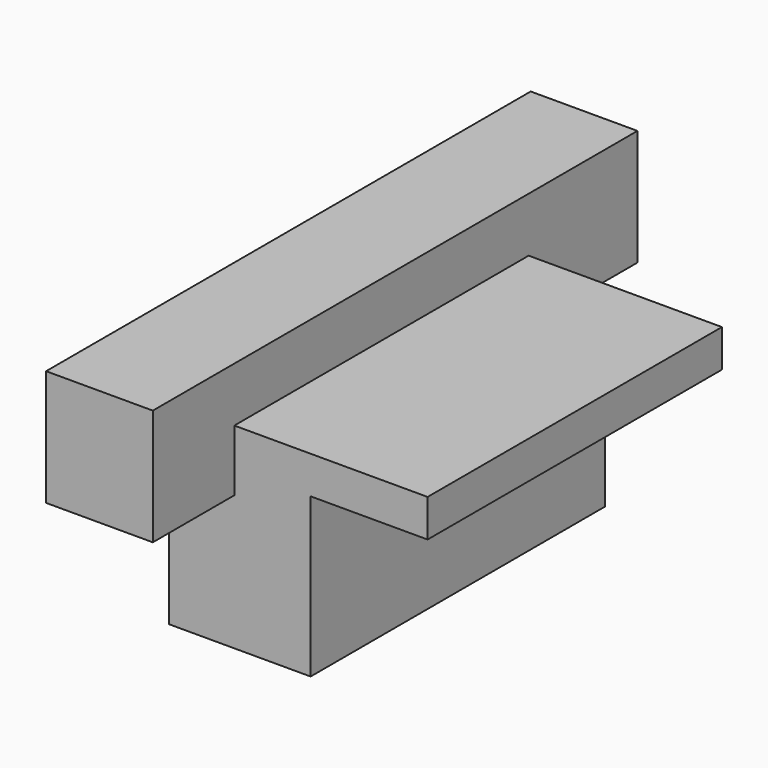
from build123d import *

# Parameters (mm, degrees)
F0_W     = 670
F0_H     = 130
F1_DEPTH = 2100
F2_W     = 490.9612983465
F2_H     = 1275.4036784172
F3_DEPTH = 550
F4_W     = 670
F4_H     = 471.3955521584
F4_H_2   = 353.2007694244
F5_DEPTH = 500


with BuildPart() as f1:
    # F0 (on Front) → F1 (new body)
    with BuildSketch(Plane.XZ):
        Polygon((0, 402), (0, 0), (370, 0), (370, 82.8653350472), (370, 212.8653350472), (370, 402), align=None)
        with Locations((705, 147.8653350472)):
            Rectangle(F0_W, F0_H)
    extrude(amount=F1_DEPTH)

    # F2 (on face) → F3 (join)
    with BuildSketch(Plane(origin=(0, 0, 82.8653350472), x_dir=(1, 0, 0), z_dir=(0, 0, -1))):
        with Locations((388.9861777425, 1109.097391367)):
            Rectangle(F2_W, F2_H)
    extrude(amount=F3_DEPTH)

    # F4 (on face) → F5 (cut)
    with BuildSketch(Plane(origin=(0, 0, 82.8653350472), x_dir=(1, 0, 0), z_dir=(0, 0, -1))):
        with Locations((705, 235.6977760792)):
            Rectangle(F4_W, F4_H)
        with Locations((705, 1923.3996152878)):
            Rectangle(F4_W, F4_H_2)
    extrude(amount=-F5_DEPTH, mode=Mode.SUBTRACT)


solid = f1.part
